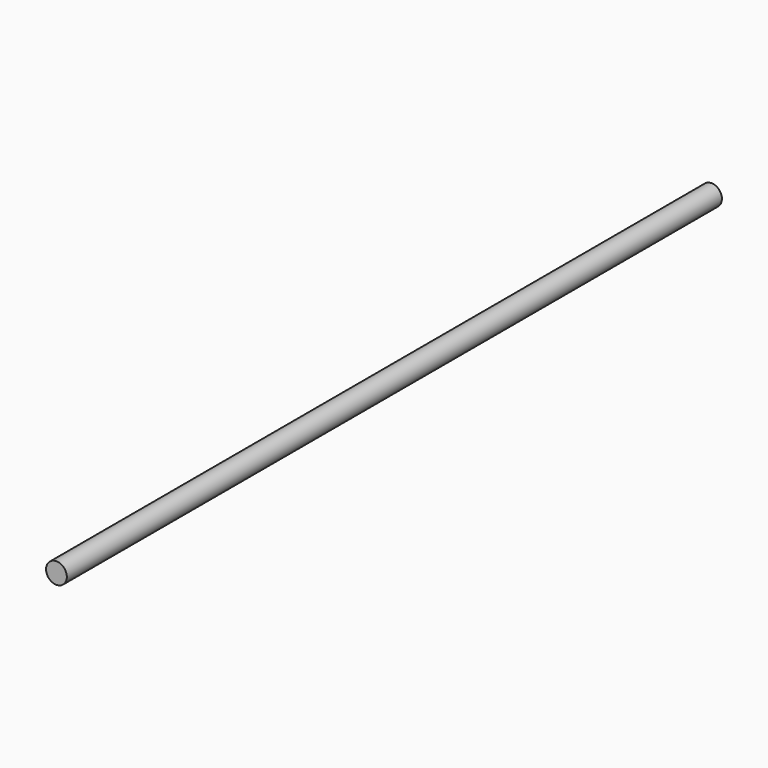
from build123d import *

# Parameters (mm, degrees)
CYLINDER_R          = 5
CYLINDER_DEPTH      = 394
CYLINDER_ROLL_ANGLE = 90


with BuildPart() as part:
    # Cylinder → Cylinder (new body)
    with BuildSketch(Plane.XY):
        Circle(CYLINDER_R)
    extrude(amount=CYLINDER_DEPTH)


with BuildPart() as part_1:
    # Cylinder roll: moved
    add(part.part.rotate(Axis((0, 0, 0), (1, 0, 0)), CYLINDER_ROLL_ANGLE))


with BuildPart() as part_2:
    # Cylinder placement: moved
    add(part_1.part.moved(Location((0, 197, 0))))


solid = part_2.part
